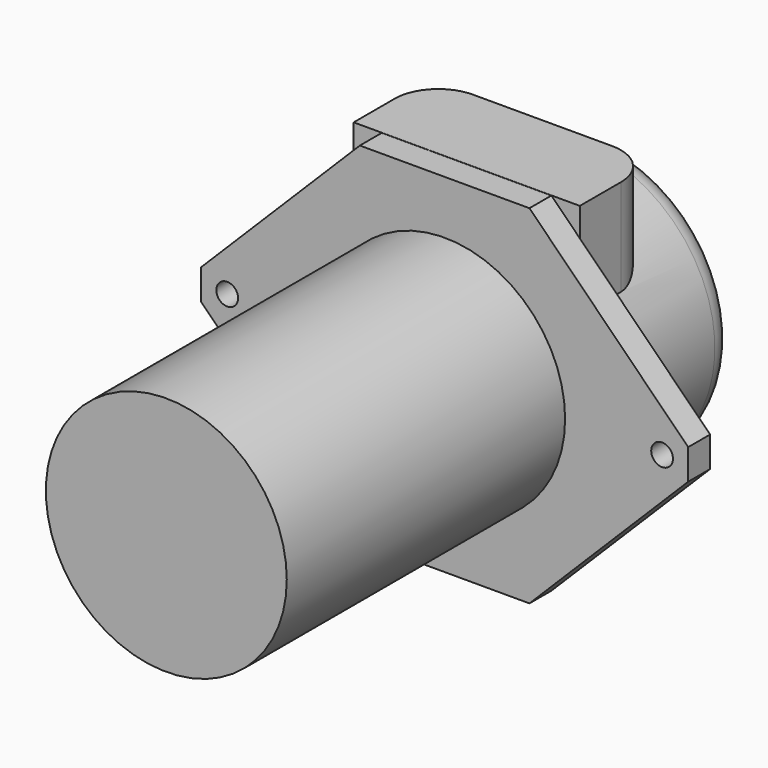
from build123d import *

# Parameters (mm, degrees)
F0_R     = 1.25
F0_R_2   = 13.85
F1_DEPTH = 3.15
F2_DEPTH = 40
F3_R     = 15.75
F4_DEPTH = 19
F5_R     = 3
F6_W     = 26
F6_H     = 10.898383
F7_DEPTH = 12
F8_R     = 5


with BuildPart() as f1:
    # F0 (on Front) → F1 (new body)
    with BuildSketch(Plane.XZ):
        Polygon((-9.75, 20), (-28, 1.75), (-28, -1.75), (-9.75, -20), (9.75, -20), (28, -1.75), (28, 1.75), (9.75, 20), align=None)
        with Locations((-25, 0)):
            Circle(F0_R, mode=Mode.SUBTRACT)
        Circle(F0_R_2, mode=Mode.SUBTRACT)
        with Locations((25, 0)):
            Circle(F0_R, mode=Mode.SUBTRACT)
    extrude(amount=-F1_DEPTH)

    # F3 (on face) → F4 (join)
    with BuildSketch(Plane(origin=(0, 3.15, 0), x_dir=(-1, 0, 0), z_dir=(0, 1, 0))):
        Circle(F3_R)
    extrude(amount=F4_DEPTH)

    # F5
    f5_edges = [f1.edges().sort_by_distance(p)[0] for p in [
        (15.75, 22.15, 0),
    ]]
    fillet(f5_edges, radius=F5_R)

    # F6 (on face) → F7 (join)
    with BuildSketch(Plane.XY.offset(20)):
        with Locations((0, 8.626893)):
            Rectangle(F6_W, F6_H)
    extrude(amount=-F7_DEPTH)

    # F8
    f8_edges = [f1.edges().sort_by_distance(p)[0] for p in [
        (13, 14.076085, 14.445855),
        (-13, 14.076085, 14.445855),
    ]]
    fillet(f8_edges, radius=F8_R)


with BuildPart() as f2:
    # F0 (on Front) → F2 (new body)
    with BuildSketch(Plane.XZ):
        Circle(F0_R_2)
    extrude(amount=F2_DEPTH)


solid = Compound([f1.part, f2.part])
